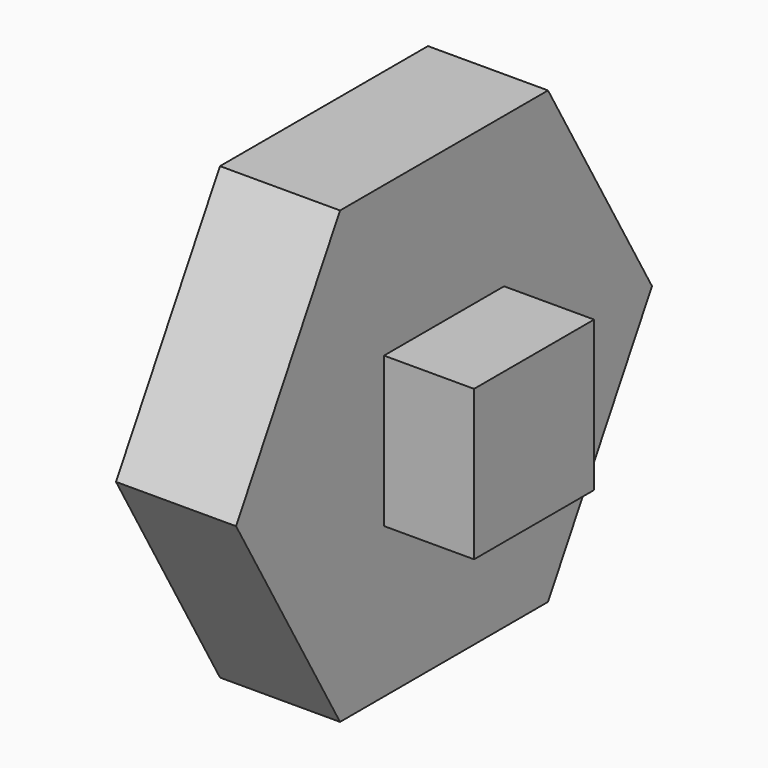
from build123d import *

# Parameters (mm, degrees)
F0_W     = 5
F0_H     = 5
F1_DEPTH = 3
F2_DEPTH = 4


with BuildPart() as f1:
    # F0 (on Right) → F1 (new body)
    with BuildSketch(Plane.YZ):
        with Locations((41.605493, 33.802644)):
            Rectangle(F0_W, F0_H)
    extrude(amount=F1_DEPTH)

    # F0 (on Right) → F2 (join)
    with BuildSketch(Plane.YZ):
        Polygon((45.93562, 41.302644), (37.275366, 41.302644), (32.945239, 33.802644), (37.275366, 26.302644), (45.93562, 26.302644), (50.265747, 33.802644), align=None)
        with Locations((41.605493, 33.802644)):
            Rectangle(F0_W, F0_H, mode=Mode.SUBTRACT)
        with Locations((41.605493, 33.802644)):
            Rectangle(F0_W, F0_H)
    extrude(amount=-F2_DEPTH)


solid = f1.part
